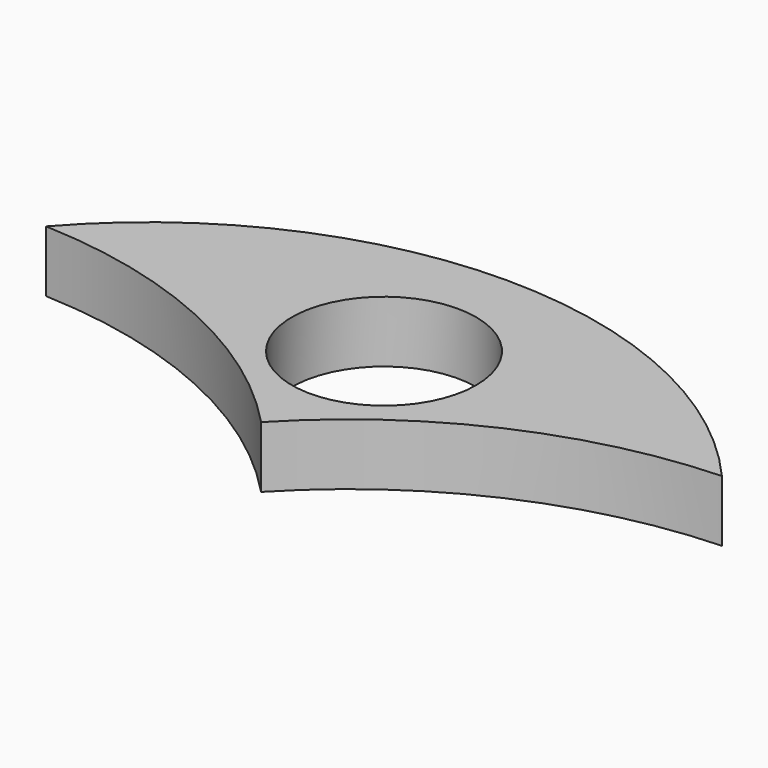
from build123d import *

# Parameters (mm, degrees)
F0_R     = 9.525
F1_DEPTH = 6.35


with BuildPart() as f1:
    # F0 (on Top) → F1 (new body)
    with BuildSketch(Plane.XY):
        with BuildLine():
            ThreePointArc((0, -15.875), (15.906318, -4.513899), (34.925, 0))
            ThreePointArc((34.925, 0), (0, 15.875), (-34.925, 0))
            ThreePointArc((-34.925, 0), (-15.906318, -4.513899), (0, -15.875))
        make_face()
        Circle(F0_R, mode=Mode.SUBTRACT)
    extrude(amount=F1_DEPTH)


solid = f1.part
